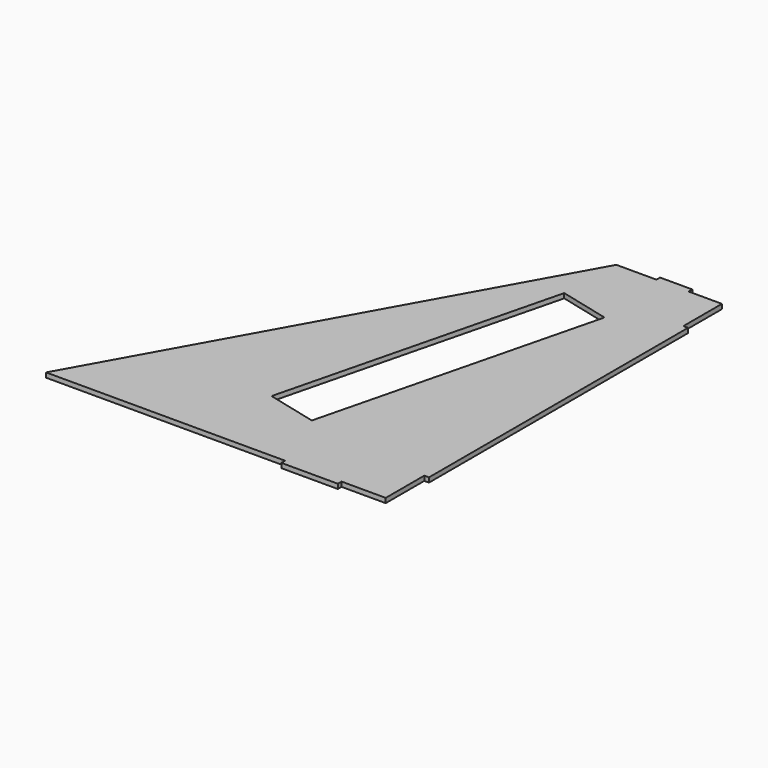
from build123d import *

# Parameters (mm, degrees)
F1_DEPTH = 4.45


with BuildPart() as f1:
    # F0 (on Top) → F1 (new body)
    with BuildSketch(Plane.XY):
        Polygon((8.203741, -200), (50.26738, -200), (50.26738, -154.10744), (54.71738, -154.10744), (54.71738, 154.10744), (50.26738, 154.10744), (50.26738, 200), (19.648342, 200), (18.648344, 200), (18.648344, 204.336185), (-12.113586, 204.336185), (-12.113586, 200), (-19.648342, 200), (-50.26738, 200), (-273.025618, -200), (-101.126758, -200), (-50.26738, -200), (-45.500429, -200), (-45.512314, -204.45), (8.191856, -204.45), align=None)
        Polygon((-52.080311, 140.305415), (-4.153523, 128.331152), (-70.45107, -137.02369), (-118.377859, -125.049427), align=None, mode=Mode.SUBTRACT)
    extrude(amount=F1_DEPTH)


solid = f1.part
